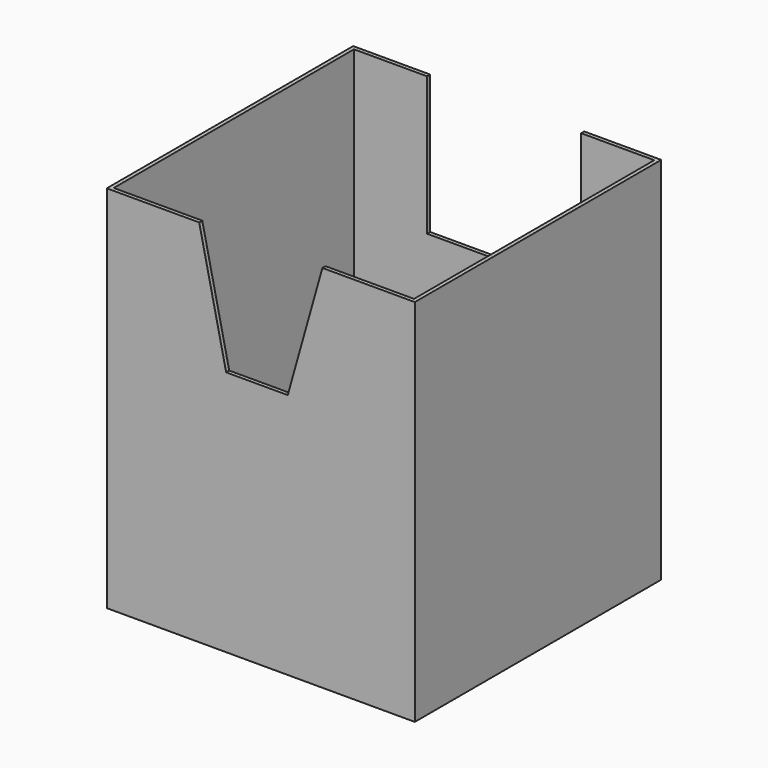
from build123d import *

# Parameters (mm, degrees)
F1_DEPTH  = 254
F2_T      = -3.175
F4_DEPTH  = 25.4
F6_DEPTH  = 25.4
F8_DEPTH  = 25.4
F9_R      = 5.55625
F10_DEPTH = 25.4


with BuildPart() as f1:
    # F0 (on Front) → F1 (new body)
    with BuildSketch(Plane.XZ):
        Polygon((-127, 0), (0, 0), (127, 0), (127, 304.8), (-127, 304.8), align=None)
    extrude(amount=-F1_DEPTH)

    # F2
    f2_openings = [f1.faces().sort_by_distance(p)[0] for p in [
        (0, 127, 304.8),
    ]]
    offset(amount=F2_T, openings=f2_openings)

    # F3 (on face) → F4 (cut)
    with BuildSketch(Plane.XZ):
        Polygon((50.8, 304.8), (-50.8, 304.8), (-28.575, 203.2), (22.225, 203.2), align=None)
    extrude(amount=-F4_DEPTH, mode=Mode.SUBTRACT)

    # F5 (on face) → F6 (cut)
    with BuildSketch(Plane(origin=(0, 254, 0), x_dir=(-1, 0, 0), z_dir=(0, 1, 0))):
        Polygon((-16.939813, 304.8), (-63.5, 304.8), (-63.5, 190.5), (-16.939813, 190.5), (63.5, 190.5), (63.5, 304.8), align=None)
    extrude(amount=-F6_DEPTH, mode=Mode.SUBTRACT)

    # F7 (on face) → F8 (cut)
    with BuildSketch(Plane(origin=(0, 0, 0), x_dir=(1, 0, 0), z_dir=(0, 0, -1))):
        with BuildLine():
            ThreePointArc((0, -158.75), (-13.470384, -191.270384), (19.05, -177.8))
            ThreePointArc((19.05, -177.8), (13.470384, -164.329616), (0, -158.75))
        make_face()
    extrude(amount=-F8_DEPTH, mode=Mode.SUBTRACT)

    # F9 (on face) → F10 (cut)
    with BuildSketch(Plane(origin=(0, 254, 0), x_dir=(-1, 0, 0), z_dir=(0, 1, 0))):
        with BuildLine():
            ThreePointArc((43.65625, 139.7), (38.1, 145.25625), (32.54375, 139.7))
            ThreePointArc((32.54375, 139.7), (38.1, 134.14375), (43.65625, 139.7))
        make_face()
        with Locations((-38.1, 139.7)):
            Circle(F9_R)
    extrude(amount=-F10_DEPTH, mode=Mode.SUBTRACT)


solid = f1.part
